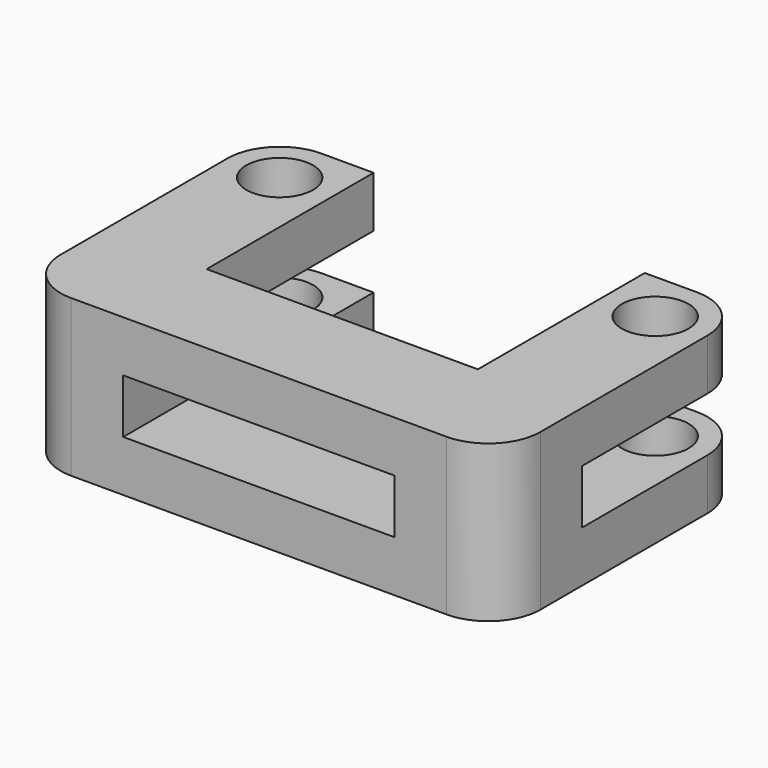
from build123d import *

# Parameters (mm, degrees)
SKETCH006_R  = 3.2
PAD004_DEPTH = 4.9
SKETCH007_W  = 10
SKETCH007_H  = 10
PAD005_DEPTH = 5.2
SKETCH010_R  = 3.2
PAD006_DEPTH = 4.9
FILLET005_R  = 5


with BuildPart() as part:
    # Sketch006 → Pad004 (new body)
    with BuildSketch(Plane.XY):
        with BuildLine():
            Line((-18, 20), (-13, 20))
            Line((-13, 20), (-13, 0))
            Line((-13, 0), (13, 0))
            Line((13, 0), (13, 20))
            Line((13, 20), (18, 20))
            ThreePointArc((23, 15), (21.535534, 18.535534), (18, 20))
            Line((23, 15), (23, -10))
            Line((23, -10), (-23, -10))
            Line((-23, -10), (-23, 15))
            ThreePointArc((-18, 20), (-21.535534, 18.535534), (-23, 15))
        make_face()
        with Locations((-18, 15)):
            Circle(SKETCH006_R, mode=Mode.SUBTRACT)
        with Locations((18, 15)):
            Circle(SKETCH006_R, mode=Mode.SUBTRACT)
    extrude(amount=PAD004_DEPTH)

    # Sketch007 → Pad005 (new body)
    with BuildSketch(Plane.XY.offset(4.9)):
        with Locations((-18, -5)):
            Rectangle(SKETCH007_W, SKETCH007_H)
        with Locations((18, -5)):
            Rectangle(SKETCH007_W, SKETCH007_H)
    extrude(amount=PAD005_DEPTH)

    # Sketch010 → Pad006 (new body)
    with BuildSketch(Plane.XY.offset(10.1)):
        with BuildLine():
            Line((-18, 20), (-13, 20))
            Line((-13, 20), (-13, 0))
            Line((-13, 0), (13, 0))
            Line((13, 0), (13, 20))
            Line((13, 20), (18, 20))
            ThreePointArc((23, 15), (21.535534, 18.535534), (18, 20))
            Line((23, 15), (23, -10))
            Line((23, -10), (-23, -10))
            Line((-23, -10), (-23, 15))
            ThreePointArc((-18, 20), (-21.535534, 18.535534), (-23, 15))
        make_face()
        with Locations((-18, 15)):
            Circle(SKETCH010_R, mode=Mode.SUBTRACT)
        with Locations((18, 15)):
            Circle(SKETCH010_R, mode=Mode.SUBTRACT)
    extrude(amount=PAD006_DEPTH)

    # Fillet005
    fillet005_edges = [part.edges().sort_by_distance(p)[0] for p in [
        (23, -10, 12.55),
        (23, -10, 7.5),
        (23, -10, 2.45),
        (-23, -10, 2.45),
        (-23, -10, 7.5),
        (-23, -10, 12.55),
    ]]
    fillet(fillet005_edges, radius=FILLET005_R)


solid = part.part
